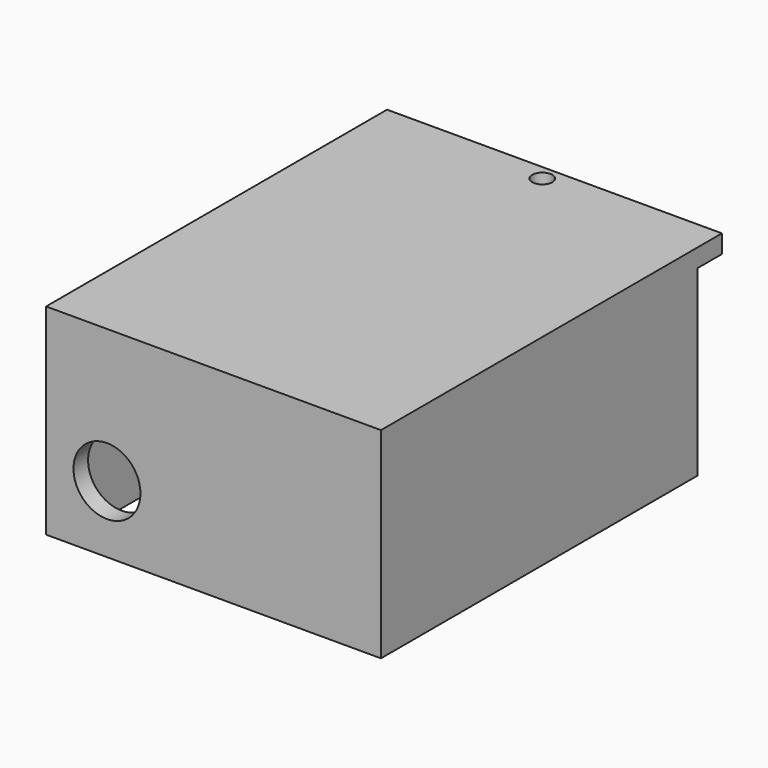
from build123d import *

# Parameters (mm, degrees)
F0_W     = 55
F0_H     = 70
F1_DEPTH = 33
F2_T     = -3
F3_W     = 5
F3_H     = 30
F4_DEPTH = 55
F5_R     = 5.5
F6_DEPTH = 3
F7_R     = 1.65
F8_DEPTH = 3


with BuildPart() as f1:
    # F0 (on Top) → F1 (new body)
    with BuildSketch(Plane.XY):
        with Locations((27.5, 35)):
            Rectangle(F0_W, F0_H)
    extrude(amount=F1_DEPTH)

    # F2
    f2_openings = [f1.faces().sort_by_distance(p)[0] for p in [
        (27.5, 35, 0),
    ]]
    offset(amount=F2_T, openings=f2_openings)

    # F3 (on face) → F4 (cut, through all)
    with BuildSketch(Plane.YZ.offset(55)):
        with Locations((67.5, 15)):
            Rectangle(F3_W, F3_H)
    extrude(amount=-F4_DEPTH, mode=Mode.SUBTRACT)

    # F5 (on face) → F6 (cut, through all)
    with BuildSketch(Plane.XZ):
        with Locations((10, 11)):
            Circle(F5_R)
    extrude(amount=-F6_DEPTH, mode=Mode.SUBTRACT)

    # F7 (on face) → F8 (cut, through all)
    with BuildSketch(Plane.XY.offset(33)):
        with Locations((27.5, 67.5)):
            Circle(F7_R)
    extrude(amount=-F8_DEPTH, mode=Mode.SUBTRACT)


solid = f1.part
